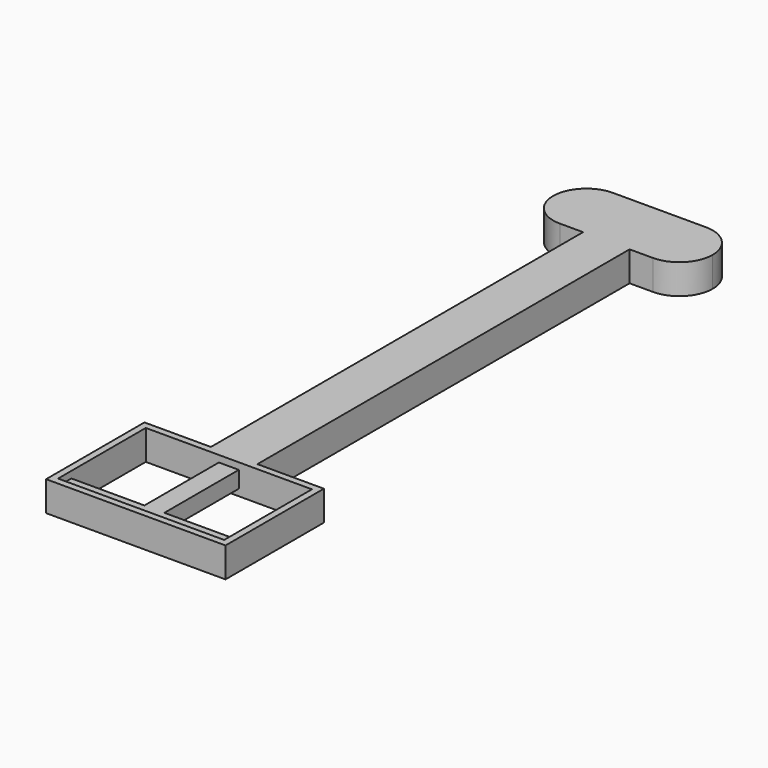
from build123d import *

# Parameters (mm, degrees)
F1_DEPTH      = 5
F3_W          = 50
F3_H          = 5
F4_DEPTH      = 5
F5_W          = 50
F5_H          = 33
F6_DEPTH      = 7
F6_DEPTH_BACK = 2


with BuildPart() as f1:
    # F0 (on Top) → F1 (new body)
    with BuildSketch(Plane.XY):
        Polygon((3, 13), (0, 13), (0, -180), (3, -180), (3, -39.087124), (3, -36.912876), (3, -35.887124), (3, -33.712876), (3, -32.687124), (3, -30.512876), (3, -29.487124), (3, -27.312876), (3, -26.287124), (3, -24.112876), (3, -23.087124), (3, -20.912876), (3, -19.887124), (3, -17.712876), (3, -16.687124), (3, -14.512876), (3, -13.487124), (3, -11.312876), (3, -10.287124), (3, -8.112876), (3, -7.087124), (3, -4.912876), (3, -3.887124), (3, -1.712876), (3, -0.687124), (3, 1.487124), (3, 2.512876), (3, 4.687124), (3, 5.712876), (3, 7.887124), (3, 8.912876), (3, 11.087124), align=None)
        with BuildLine():
            ThreePointArc((5, 10.5), (4.042199, 10.93731), (3, 11.087124))
            Line((3, 11.087124), (3, 8.912876))
            ThreePointArc((3, 8.912876), (4.042199, 9.06269), (5, 9.5))
            Line((5, 9.5), (5, 10))
            Line((5, 10), (5, 10.5))
        make_face()
        with BuildLine():
            Line((3, -36.912876), (3, -39.087124))
            ThreePointArc((3, -39.087124), (4.042199, -38.93731), (5, -38.5))
            Line((5, -38.5), (5, -38))
            Line((5, -38), (5, -37.5))
            ThreePointArc((5, -37.5), (4.042199, -37.06269), (3, -36.912876))
        make_face()
        with BuildLine():
            ThreePointArc((5, 7.3), (4.042199, 7.73731), (3, 7.887124))
            Line((3, 7.887124), (3, 5.712876))
            ThreePointArc((3, 5.712876), (4.042199, 5.86269), (5, 6.3))
            Line((5, 6.3), (5, 6.8))
            Line((5, 6.8), (5, 7.3))
        make_face()
        with BuildLine():
            Line((3, -33.712876), (3, -35.887124))
            ThreePointArc((3, -35.887124), (4.042199, -35.73731), (5, -35.3))
            Line((5, -35.3), (5, -34.8))
            Line((5, -34.8), (5, -34.3))
            ThreePointArc((5, -34.3), (4.042199, -33.86269), (3, -33.712876))
        make_face()
        with BuildLine():
            ThreePointArc((5, 4.1), (4.042199, 4.53731), (3, 4.687124))
            Line((3, 4.687124), (3, 2.512876))
            ThreePointArc((3, 2.512876), (4.042199, 2.66269), (5, 3.1))
            Line((5, 3.1), (5, 3.6))
            Line((5, 3.6), (5, 4.1))
        make_face()
        with BuildLine():
            Line((3, -30.512876), (3, -32.687124))
            ThreePointArc((3, -32.687124), (4.042199, -32.53731), (5, -32.1))
            Line((5, -32.1), (5, -31.6))
            Line((5, -31.6), (5, -31.1))
            ThreePointArc((5, -31.1), (4.042199, -30.66269), (3, -30.512876))
        make_face()
        with BuildLine():
            ThreePointArc((5, 0.9), (4.042199, 1.33731), (3, 1.487124))
            Line((3, 1.487124), (3, -0.687124))
            ThreePointArc((3, -0.687124), (4.042199, -0.53731), (5, -0.1))
            Line((5, -0.1), (5, 0.4))
            Line((5, 0.4), (5, 0.9))
        make_face()
        with BuildLine():
            Line((3, -27.312876), (3, -29.487124))
            ThreePointArc((3, -29.487124), (4.042199, -29.33731), (5, -28.9))
            Line((5, -28.9), (5, -28.4))
            Line((5, -28.4), (5, -27.9))
            ThreePointArc((5, -27.9), (4.042199, -27.46269), (3, -27.312876))
        make_face()
        with BuildLine():
            ThreePointArc((5, -2.3), (4.042199, -1.86269), (3, -1.712876))
            Line((3, -1.712876), (3, -3.887124))
            ThreePointArc((3, -3.887124), (4.042199, -3.73731), (5, -3.3))
            Line((5, -3.3), (5, -2.8))
            Line((5, -2.8), (5, -2.3))
        make_face()
        with BuildLine():
            Line((3, -24.112876), (3, -26.287124))
            ThreePointArc((3, -26.287124), (4.042199, -26.13731), (5, -25.7))
            Line((5, -25.7), (5, -25.2))
            Line((5, -25.2), (5, -24.7))
            ThreePointArc((5, -24.7), (4.042199, -24.26269), (3, -24.112876))
        make_face()
        with BuildLine():
            ThreePointArc((5, -5.5), (4.042199, -5.06269), (3, -4.912876))
            Line((3, -4.912876), (3, -7.087124))
            ThreePointArc((3, -7.087124), (4.042199, -6.93731), (5, -6.5))
            Line((5, -6.5), (5, -6))
            Line((5, -6), (5, -5.5))
        make_face()
        with BuildLine():
            Line((3, -20.912876), (3, -23.087124))
            ThreePointArc((3, -23.087124), (4.042199, -22.93731), (5, -22.5))
            Line((5, -22.5), (5, -22))
            Line((5, -22), (5, -21.5))
            ThreePointArc((5, -21.5), (4.042199, -21.06269), (3, -20.912876))
        make_face()
        with BuildLine():
            ThreePointArc((5, -8.7), (4.042199, -8.26269), (3, -8.112876))
            Line((3, -8.112876), (3, -10.287124))
            ThreePointArc((3, -10.287124), (4.042199, -10.13731), (5, -9.7))
            Line((5, -9.7), (5, -9.2))
            Line((5, -9.2), (5, -8.7))
        make_face()
        with BuildLine():
            Line((3, -17.712876), (3, -19.887124))
            ThreePointArc((3, -19.887124), (4.042199, -19.73731), (5, -19.3))
            Line((5, -19.3), (5, -18.8))
            Line((5, -18.8), (5, -18.3))
            ThreePointArc((5, -18.3), (4.042199, -17.86269), (3, -17.712876))
        make_face()
        with BuildLine():
            ThreePointArc((5, -11.9), (4.042199, -11.46269), (3, -11.312876))
            Line((3, -11.312876), (3, -13.487124))
            ThreePointArc((3, -13.487124), (4.042199, -13.33731), (5, -12.9))
            Line((5, -12.9), (5, -12.4))
            Line((5, -12.4), (5, -11.9))
        make_face()
        with BuildLine():
            Line((3, -14.512876), (3, -16.687124))
            ThreePointArc((3, -16.687124), (4.042199, -16.53731), (5, -16.1))
            Line((5, -16.1), (5, -15.6))
            Line((5, -15.6), (5, -15.1))
            ThreePointArc((5, -15.1), (4.042199, -14.66269), (3, -14.512876))
        make_face()
    extrude(amount=F1_DEPTH)

    # F2: F1 across face


with BuildPart() as f1_1:
    add(f1.part)
    add(f1.part.mirror(Plane(origin=(0, -83.5, 2.5), x_dir=(0, -1, 0), z_dir=(-1, 0, 0))))

    # F3 (on face) → F4 (join)
    with BuildSketch(Plane.XZ.offset(180)):
        with Locations((0, 2.5)):
            Rectangle(F3_W, F3_H)
    extrude(amount=F4_DEPTH)


with BuildPart() as f6:
    # F5 (on Top) → F6 (new body, two sides)
    with BuildSketch(Plane.XY) as f6_sk:
        with BuildLine():
            ThreePointArc((14, -10), (21.071068, -7.071068), (24, 0))
            ThreePointArc((24, 0), (21.071068, 7.071068), (14, 10))
            ThreePointArc((14, 10), (4, 0), (14, -10))
        make_face()
        with BuildLine():
            ThreePointArc((14, -10), (4, 0), (14, 10))
            Line((14, 10), (0, 10))
            Line((0, 10), (-14, 10))
            ThreePointArc((-14, 10), (-6.928932, 7.071068), (-4, 0))
            ThreePointArc((-4, 0), (-6.928932, -7.071068), (-14, -10))
            Line((-14, -10), (-7, -10))
            Line((-7, -10), (-7, -150))
            Line((-7, -150), (-27, -150))
            Line((-27, -150), (-27, -187))
            Line((-27, -187), (0, -187))
            Line((0, -187), (27, -187))
            Line((27, -187), (27, -150))
            Line((27, -150), (7, -150))
            Line((7, -150), (7, -10))
            Line((7, -10), (14, -10))
        make_face()
        with Locations((0, -168.5)):
            Rectangle(F5_W, F5_H, mode=Mode.SUBTRACT)
        with BuildLine():
            ThreePointArc((-4, 0), (-6.928932, 7.071068), (-14, 10))
            ThreePointArc((-14, 10), (-24, 0), (-14, -10))
            ThreePointArc((-14, -10), (-6.928932, -7.071068), (-4, 0))
        make_face()
    extrude(amount=F6_DEPTH)
    extrude(f6_sk.sketch, amount=-F6_DEPTH_BACK)

    # F7: cut F1
    add(f1_1.part, mode=Mode.SUBTRACT)


solid = Compound([f1_1.part, f6.part])
